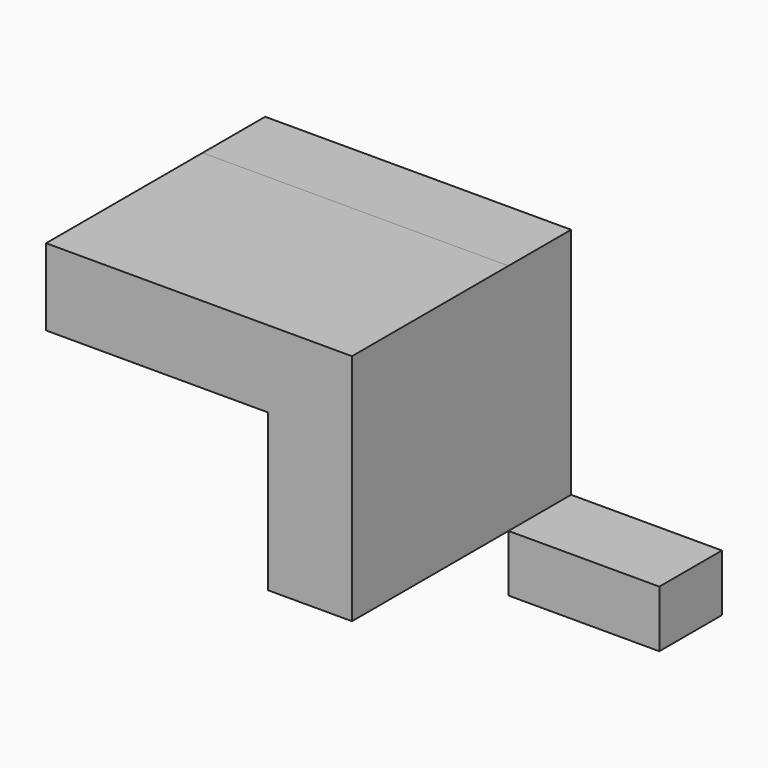
from build123d import *

# Parameters (mm, degrees)
F0_W     = 48.952729
F0_H     = 18.472726
F1_DEPTH = 25.4
F2_DEPTH = 63.5


with BuildPart() as f1:
    # F0 (on Front) → F1 (new body)
    with BuildSketch(Plane.XZ):
        Polygon((23.466747, 27.932629), (-75.824153, 27.93263), (-75.824153, 2.994448), (-3.780524, 2.994448), (-3.780524, -47.805552), (23.466747, -47.805552), align=None)
        with Locations((47.943112, -57.041915)):
            Rectangle(F0_W, F0_H)
    extrude(amount=F1_DEPTH)

    # F1_face (on face) → F2 (join)
    with BuildSketch(Plane(origin=(-13.262594, -25.4, 1.885064), x_dir=(1, 0, 0), z_dir=(0, -1, 0))):
        Polygon((36.729341, 26.047566), (-62.561559, 26.047567), (-62.561559, 1.109385), (9.48207, 1.109385), (9.48207, -49.690615), (36.729341, -49.690615), align=None)
    extrude(amount=F2_DEPTH)


solid = f1.part
